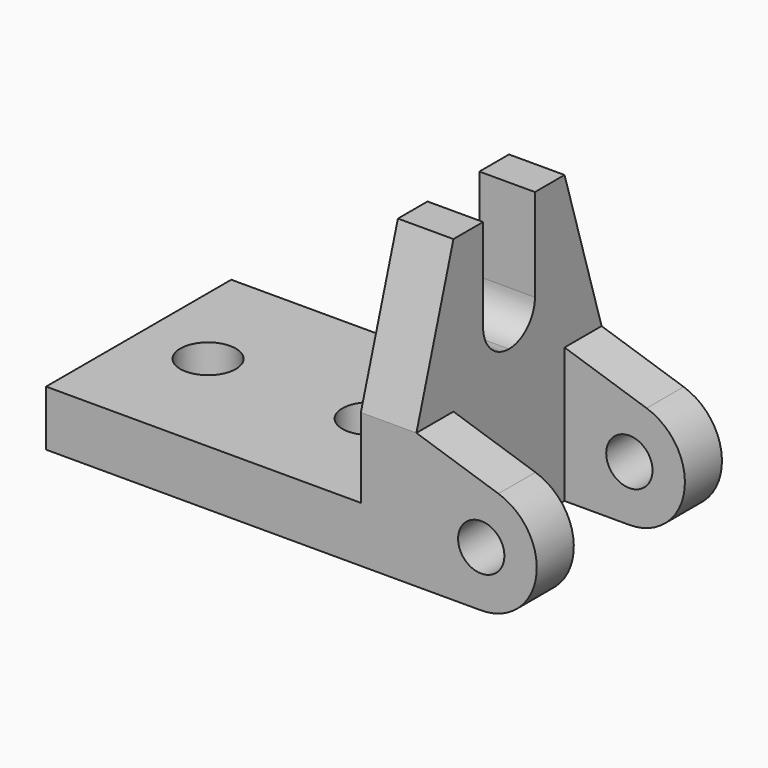
from build123d import *

# Parameters (mm, degrees)
F1_DEPTH = 152.4
F2_W     = 317.5
F2_H     = 218.3699290887
F3_DEPTH = 152.4
F4_R     = 63.5
F5_DEPTH = 127
F6_R     = 63.5
F7_DEPTH = 127


with BuildPart() as f1:
    # F0 (on Top) → F1 (new body)
    with BuildSketch(Plane.XY):
        Polygon((0, 317.5), (0, 0), (1016, 0), (1016, 635), (0, 635), align=None)
        with BuildLine():
            ThreePointArc((266.7, 317.5), (190.5, 241.3), (114.3, 317.5))
            ThreePointArc((114.3, 317.5), (190.5, 393.7), (266.7, 317.5))
        make_face(mode=Mode.SUBTRACT)
        with BuildLine():
            ThreePointArc((711.2, 317.5), (635, 241.3), (558.8, 317.5))
            ThreePointArc((558.8, 317.5), (635, 393.7), (711.2, 317.5))
        make_face(mode=Mode.SUBTRACT)
    extrude(amount=F1_DEPTH)

    # F2 (on face) → F3 (join)
    with BuildSketch(Plane.YZ.offset(1016)):
        with BuildLine():
            Line((317.5, 370.7699290887), (635, 370.7699290887))
            Line((635, 370.7699290887), (508, 787.4))
            Line((508, 787.4), (406.4, 787.4))
            Line((406.4, 787.4), (406.4, 533.4))
            ThreePointArc((406.4, 533.4), (380.3617928475, 470.5382071525), (317.5, 444.5))
            Line((317.5, 444.5), (317.5, 370.7699290887))
        make_face()
        with Locations((476.25, 261.5849645443)):
            Rectangle(F2_W, F2_H)
        with Locations((158.75, 261.5849645443)):
            Rectangle(F2_W, F2_H)
        with BuildLine():
            Line((127, 787.4), (0, 370.7699290887))
            Line((0, 370.7699290887), (317.5, 370.7699290887))
            Line((317.5, 370.7699290887), (317.5, 444.5))
            ThreePointArc((317.5, 444.5), (254.6382071525, 470.5382071525), (228.6, 533.4))
            Line((228.6, 533.4), (228.6, 787.4))
            Line((228.6, 787.4), (127, 787.4))
        make_face()
    extrude(amount=-F3_DEPTH)

    # F4 (on face) → F5 (join)
    with BuildSketch(Plane.XZ):
        with BuildLine():
            Line((1016, 370.7699290887), (1016, 0))
            Line((1016, 0), (1193.8, 0))
            ThreePointArc((1193.8, 0), (1344.3065953325, 128.4516229901), (1241.1016888122, 297.273428328))
            Line((1241.1016888122, 297.273428328), (1016, 370.7699290887))
        make_face()
        with Locations((1193.8, 152.4)):
            Circle(F4_R, mode=Mode.SUBTRACT)
    extrude(amount=-F5_DEPTH)

    # F6 (on face) → F7 (join)
    with BuildSketch(Plane(origin=(0, 635, 0), x_dir=(-1, 0, 0), z_dir=(0, 1, 0))):
        with BuildLine():
            Line((-1016, 0), (-1016, 370.7699290887))
            Line((-1016, 370.7699290887), (-1241.1016888122, 297.273428328))
            ThreePointArc((-1241.1016888122, 297.273428328), (-1344.3065953325, 128.4516229901), (-1193.8, 0))
            Line((-1193.8, 0), (-1016, 0))
        make_face()
        with Locations((-1193.8, 152.4)):
            Circle(F6_R, mode=Mode.SUBTRACT)
    extrude(amount=-F7_DEPTH)


solid = f1.part
